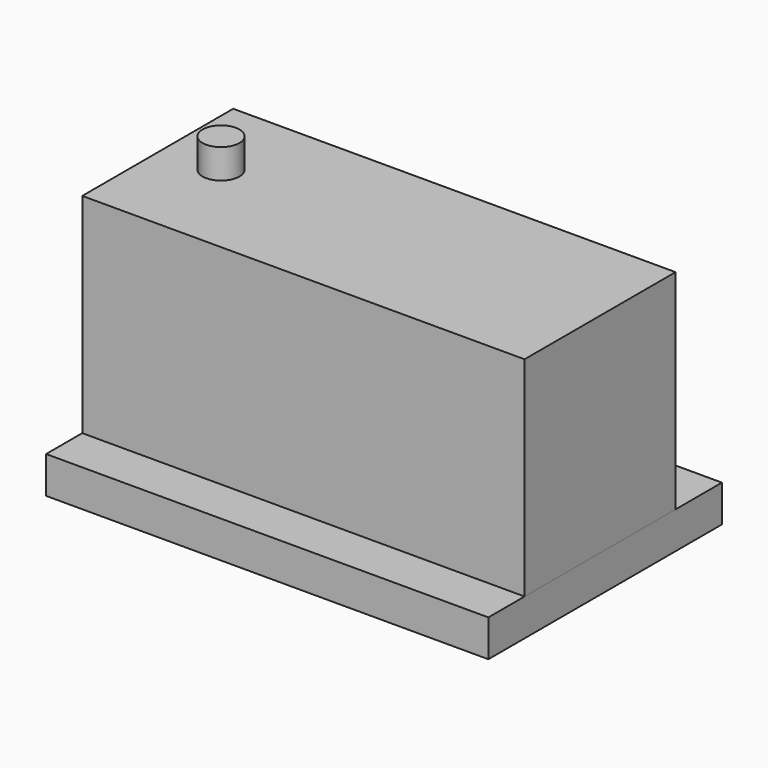
from build123d import *

# Parameters (mm, degrees)
BOX_W          = 114.3
BOX_H          = 75.438
BOX_DEPTH      = 9.525
BOX001_W       = 114.3
BOX001_H       = 48.768
BOX001_DEPTH   = 53.975
CYLINDER_R     = 4.7625
CYLINDER_DEPTH = 7.62


with BuildPart() as cube:
    # Box → Box (new body)
    with BuildSketch(Plane(origin=(-16.124774, -36.332595, 0), x_dir=(1, 0, 0), z_dir=(0, 0, 1))):
        with Locations((57.15, 37.719)):
            Rectangle(BOX_W, BOX_H)
    extrude(amount=BOX_DEPTH)


with BuildPart() as cube001:
    # Box001 → Box001 (new body)
    with BuildSketch(Plane(origin=(-16.124774, -24.648595, 9.525), x_dir=(1, 0, 0), z_dir=(0, 0, 1))):
        with Locations((57.15, 24.384)):
            Rectangle(BOX001_W, BOX001_H)
    extrude(amount=BOX001_DEPTH)


with BuildPart() as cylinder:
    # Cylinder → Cylinder (new body)
    with BuildSketch(Plane(origin=(0.010995, -1.7e-05, 64.674805), x_dir=(1, 0, 0), z_dir=(0, 0, 1))):
        Circle(CYLINDER_R)
    extrude(amount=CYLINDER_DEPTH)


solid = Compound([cube.part, cube001.part, cylinder.part])
